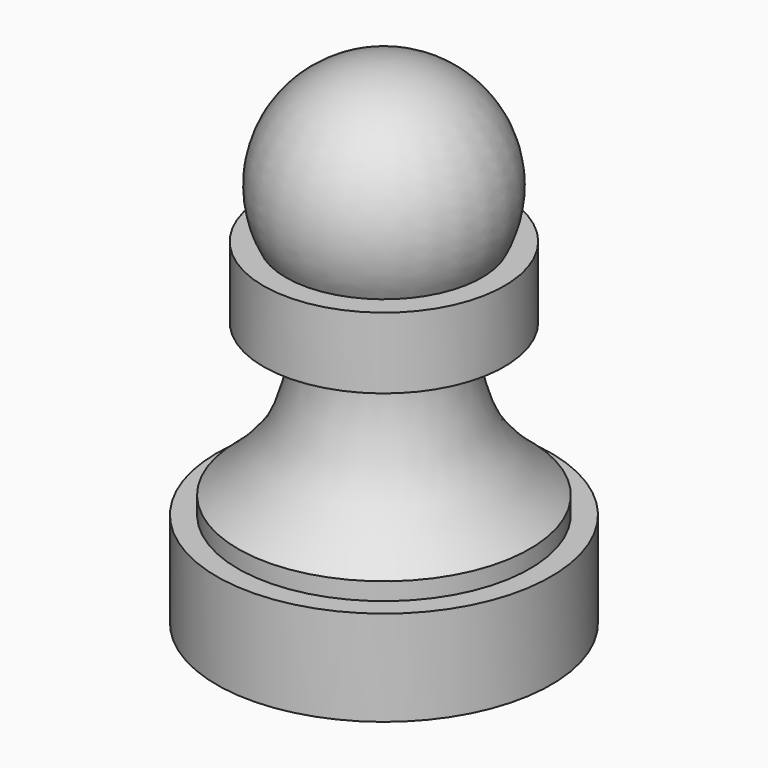
from build123d import *


with BuildPart() as f1:
    # F0 (on Front) → F1 (revolve)
    with BuildSketch(Plane.XZ):
        with BuildLine():
            Line((21.4843731374, 4.3428274803), (41.0876013339, 4.3428274803))
            Line((41.0876013339, 4.3428274803), (41.0876013339, 62.1529296041))
            ThreePointArc((41.0876013339, 62.1529296041), (30.1010892462, 56.2177329883), (29.6080578119, 43.7402762473))
            Line((29.6080578119, 43.7402762473), (26.9590262324, 43.7402762473))
            Line((26.9590262324, 43.7402762473), (26.9590262324, 35.4017727077))
            Line((26.9590262324, 35.4017727077), (32.3437526822, 35.4017727077))
            add(Edge.make_bspline(
                [(23.9697434008, 17.5643283874), (24.4452026127, 17.9524259038), (25.5687837688, 18.8695583209), (28.1276992622, 21.4895483235), (30.3506464307, 24.477499549), (31.1090443397, 26.7028247163), (31.6503786901, 28.3955510794), (31.931543292, 29.5882453803), (32.2221401703, 30.8581068175), (32.3685529921, 32.4082320019), (32.3244088201, 34.1583983403), (32.337700047, 35.012724676), (32.3437526822, 35.4017727077)],
                knots=[0, 0, 0, 0, 0.1005557256, 0.2376282036, 0.3761093569, 0.4848878958, 0.5784563238, 0.6567360311, 0.7370403182, 0.826610186, 0.921040751, 1, 1, 1, 1], degree=3))
            Line((23.9697434008, 17.5643283874), (23.9697434008, 15.5169330537))
            Line((23.9697434008, 15.5169330537), (21.4843731374, 15.5169330537))
            Line((21.4843731374, 15.5169330537), (21.4843731374, 4.3428274803))
        make_face()
    revolve(axis=Axis((41.0876013339, 0, 33.2478785422), (0, 0, 1)))


solid = f1.part
